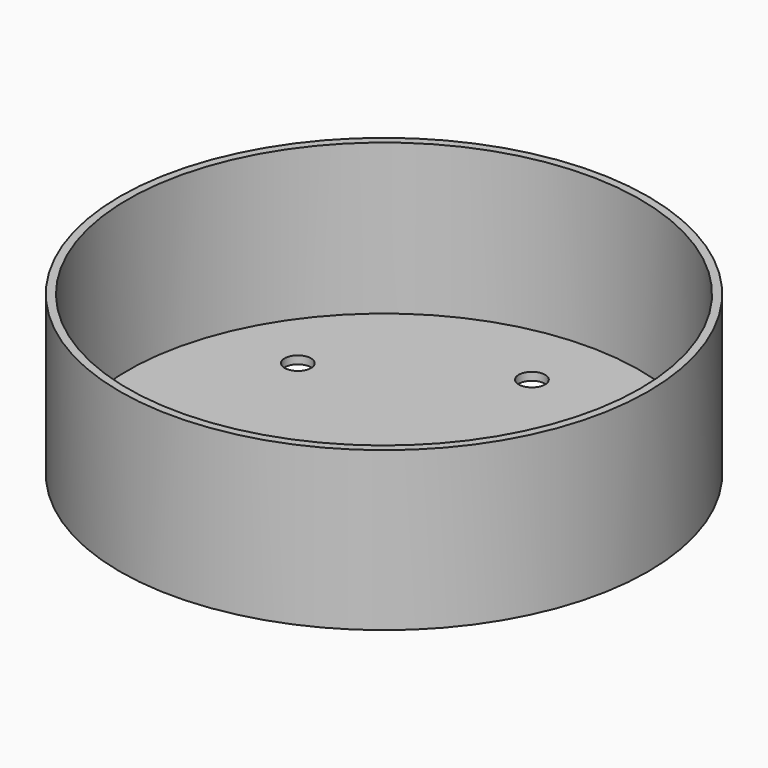
from build123d import *

# Parameters (mm, degrees)
F0_R     = 100
F1_DEPTH = 60
F2_R     = 97
F2_R_2   = 5
F3_DEPTH = 57


with BuildPart() as f1:
    # F0 (on Top) → F1 (new body)
    with BuildSketch(Plane.XY):
        Circle(F0_R)
        with BuildLine():
            ThreePointArc((-55.621778, -35), (-65.451407, -36.294095), (-56.291651, -32.5))
            ThreePointArc((-56.291651, -32.5), (-55.792149, -33.705905), (-55.621778, -35))
        make_face(mode=Mode.SUBTRACT)
        with BuildLine():
            ThreePointArc((5, -70), (-3.535534, -73.535534), (0, -65))
            ThreePointArc((0, -65), (3.535534, -66.464466), (5, -70))
        make_face(mode=Mode.SUBTRACT)
        with BuildLine():
            ThreePointArc((65.621778, -35), (59.327683, -39.829629), (56.291651, -32.5))
            ThreePointArc((56.291651, -32.5), (61.915873, -30.170371), (65.621778, -35))
        make_face(mode=Mode.SUBTRACT)
        with BuildLine():
            ThreePointArc((-55.621778, 35), (-55.792149, 33.705905), (-56.291651, 32.5))
            ThreePointArc((-56.291651, 32.5), (-65.451407, 36.294095), (-55.621778, 35))
        make_face(mode=Mode.SUBTRACT)
        with BuildLine():
            ThreePointArc((65.621778, 35), (61.915873, 30.170371), (56.291651, 32.5))
            ThreePointArc((56.291651, 32.5), (59.327683, 39.829629), (65.621778, 35))
        make_face(mode=Mode.SUBTRACT)
        with BuildLine():
            ThreePointArc((5, 70), (3.535534, 66.464466), (0, 65))
            ThreePointArc((0, 65), (-3.535534, 73.535534), (5, 70))
        make_face(mode=Mode.SUBTRACT)
    extrude(amount=F1_DEPTH)

    # F2 (on face) → F3 (cut)
    with BuildSketch(Plane.XY.offset(60)):
        Circle(F2_R)
        Circle(F2_R)
        with Locations((-60.621778, -35)):
            Circle(F2_R_2, mode=Mode.SUBTRACT)
        with Locations((0, -70)):
            Circle(F2_R_2, mode=Mode.SUBTRACT)
        with Locations((60.621778, -35)):
            Circle(F2_R_2, mode=Mode.SUBTRACT)
        with Locations((-60.621778, 35)):
            Circle(F2_R_2, mode=Mode.SUBTRACT)
        with Locations((60.621778, 35)):
            Circle(F2_R_2, mode=Mode.SUBTRACT)
        with Locations((0, 70)):
            Circle(F2_R_2, mode=Mode.SUBTRACT)
    extrude(amount=-F3_DEPTH, mode=Mode.SUBTRACT)


solid = f1.part
